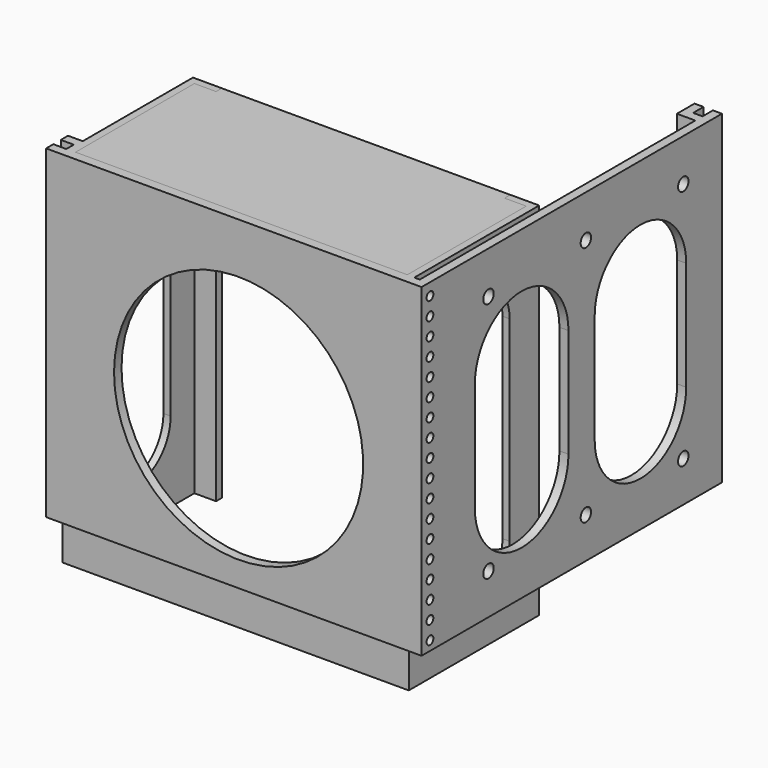
from build123d import *

# Parameters (mm, degrees)
SKETCH008_W            = 120.760007
SKETCH008_H            = 57.636461
PAD002_DEPTH           = 3.175
PAD_DEPTH              = 114.3
SKETCH002_R            = 1.495128
POCKET_DEPTH           = 3.175
LINEARPATTERN_COUNT    = 18
LINEARPATTERN_PITCH    = 6.275294
SKETCH003_R            = 2.295136
POCKET001_DEPTH        = 4.99999
LINEARPATTERN001_COUNT = 3
LINEARPATTERN001_PITCH = 42.8625
PAD001_DEPTH           = 127
SKETCH009_R            = 43.860694
POCKET002_DEPTH        = 4.99999
POCKET003_DEPTH        = 4.99999
POCKET004_DEPTH        = 121.92
POCKET005_DEPTH        = 4.99999


with BuildPart() as pad002:
    # Sketch008 → Pad002 (new body)
    with BuildSketch(Plane.XY.offset(114.3)):
        with Locations((-56.708007, 51.794169)):
            Rectangle(SKETCH008_W, SKETCH008_H)
    extrude(amount=-PAD002_DEPTH)


with BuildPart() as pocket005:
    # Sketch → Pad (new body)
    with BuildSketch(Plane.XY):
        Polygon((-122.555, 32.13329), (-122.555, 28.95829), (-117.983, 28.95829), (-117.983, 25.65629), (-122.555, 25.65629), (-122.555, 22.48129), (9.652, 22.48129), (9.652, 154.68829), (6.477, 154.68829), (6.477, 150.11629), (3.175, 150.11629), (3.175, 154.68829), (0, 154.68829), (0, 146.94129), (6.477, 146.94129), (6.477, 25.65629), (-114.808, 25.65629), (-114.808, 32.13329), align=None)
    extrude(amount=PAD_DEPTH)

    # Sketch002 → Pocket (cut)
    with BuildSketch(Plane.YZ.offset(9.652)):
        with Locations((26.180559, 110.003456)):
            Circle(SKETCH002_R)
    pocket = extrude(amount=-POCKET_DEPTH, mode=Mode.SUBTRACT)

    # LinearPattern: Pocket ×18
    with Locations(*[(0, 0, -i * LINEARPATTERN_PITCH) for i in range(1, LINEARPATTERN_COUNT)]):
        add(pocket, mode=Mode.SUBTRACT)

    # Sketch003 → Pocket001 (cut)
    with BuildSketch(Plane(origin=(6.477, 0, 0), x_dir=(0, -1, 0), z_dir=(-1, 0, 0))):
        with Locations((-137.673843, 99.396698)):
            Circle(SKETCH003_R)
        with Locations((-137.673843, 14.306698)):
            Circle(SKETCH003_R)
    pocket001 = extrude(amount=-POCKET001_DEPTH, mode=Mode.SUBTRACT)

    # LinearPattern001: Pocket001 ×3
    with Locations(*[(0, -i * LINEARPATTERN001_PITCH, 0) for i in range(1, LINEARPATTERN001_COUNT)]):
        add(pocket001, mode=Mode.SUBTRACT)

    # Sketch006 → Pad001 (new body)
    with BuildSketch(Plane.XY.offset(114.3)):
        Polygon((-114.822722, 25.773809), (2.017278, 25.773809), (2.017278, 78.097809), (-5.602722, 78.097809), (-5.602722, 80.637809), (4.557278, 80.637809), (4.557278, 23.233809), (-117.362722, 23.233809), (-117.362722, 80.637809), (-107.202722, 80.637809), (-107.202722, 78.097809), (-114.822722, 78.097809), align=None)
    extrude(amount=-PAD001_DEPTH)

    # Sketch009 → Pocket002 (cut)
    with BuildSketch(Plane(origin=(0, 25.773809, 0), x_dir=(-1, 0, 0), z_dir=(0, 1, 0))):
        with Locations((54.767361, 52.680374)):
            Circle(SKETCH009_R)
    extrude(amount=-POCKET002_DEPTH, mode=Mode.SUBTRACT)

    # Sketch010 → Pocket003 (cut)
    with BuildSketch(Plane.YZ.offset(9.652)):
        with BuildLine():
            ThreePointArc((71.518462, 62.257122), (75.586218, 66.324878), (71.518462, 70.392634))
            Line((71.518462, 70.392634), (67.437601, 70.392634))
            ThreePointArc((67.437601, 70.392634), (63.369845, 66.324878), (67.437601, 62.257122))
            Line((71.518462, 62.257122), (67.437601, 62.257122))
        make_face()
    extrude(amount=-POCKET003_DEPTH, mode=Mode.SUBTRACT)

    # Sketch011 → Pocket004 (cut)
    with BuildSketch(Plane(origin=(-117.362722, 0, 0), x_dir=(0, -1, 0), z_dir=(-1, 0, 0))):
        with BuildLine():
            ThreePointArc((-37.150161, 84.4341), (-52.39175, 99.675689), (-67.633339, 84.4341))
            Line((-67.633339, 84.4341), (-67.633339, 15.484103))
            ThreePointArc((-67.633339, 15.484103), (-52.39175, 0.242514), (-37.150161, 15.484103))
            Line((-37.150161, 84.4341), (-37.150161, 15.484103))
        make_face()
    extrude(amount=-POCKET004_DEPTH, mode=Mode.SUBTRACT)

    # Sketch012 → Pocket005 (cut)
    with BuildSketch(Plane.YZ.offset(9.652)):
        with BuildLine():
            ThreePointArc((87.135338, 74.524399), (66.535492, 95.124245), (45.935646, 74.524399))
            Line((45.935646, 74.524399), (45.935646, 36.201264))
            ThreePointArc((45.935646, 36.201264), (66.535492, 15.601418), (87.135338, 36.201264))
            Line((87.135338, 74.524399), (87.135338, 36.201264))
        make_face()
        with BuildLine():
            ThreePointArc((138.967418, 74.326317), (118.827393, 94.466342), (98.687368, 74.326317))
            Line((98.687368, 74.326317), (98.687368, 35.899683))
            ThreePointArc((98.687368, 35.899683), (118.827393, 15.759658), (138.967418, 35.899683))
            Line((138.967418, 74.326317), (138.967418, 35.899683))
        make_face()
    extrude(amount=-POCKET005_DEPTH, mode=Mode.SUBTRACT)


solid = Compound([pad002.part, pocket005.part])
